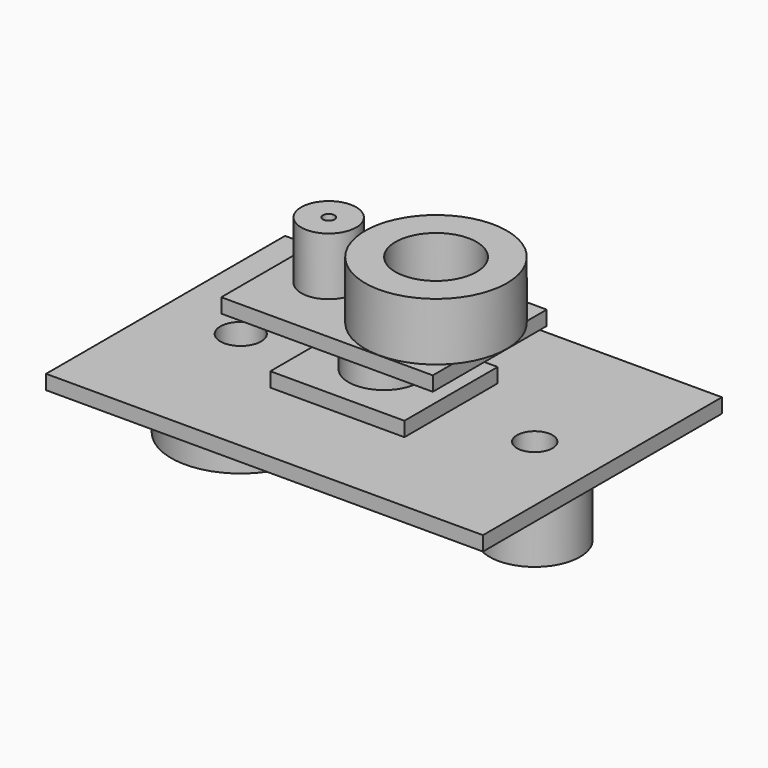
from build123d import *

# Parameters (mm, degrees)
F0_W      = 235.571132
F0_H      = 204.806238
F0_R      = 46.940365
F1_DEPTH  = 25.4
F2_R      = 62.434365
F2_R_2    = 46.940365
F3_DEPTH  = 76.2
F4_W      = 371.668696
F4_H      = 250.246078
F4_R      = 10.18532
F4_R_2    = 71.315822
F5_DEPTH  = 25.4
F6_R      = 48.285319
F6_R_2    = 10.18532
F6_R_3    = 124.655822
F6_R_4    = 71.315822
F7_DEPTH  = 101.6
F8_W      = 767.606258
F8_H      = 524.892748
F8_R      = 35.842084
F8_R_2    = 31.200306
F9_DEPTH  = 25.4
F10_R     = 79.460308
F10_R_2   = 31.200306
F10_R_3   = 122.202093
F10_R_4   = 35.842084
F11_DEPTH = 127


with BuildPart() as f1:
    # F0 (on Top) → F1 (new body)
    with BuildSketch(Plane.XY):
        Rectangle(F0_W, F0_H)
        Circle(F0_R, mode=Mode.SUBTRACT)
    extrude(amount=F1_DEPTH)

    # F2 (on face) → F3 (join)
    with BuildSketch(Plane.XY.offset(25.4)):
        Circle(F2_R)
        Circle(F2_R_2, mode=Mode.SUBTRACT)
    extrude(amount=F3_DEPTH)

    # F4 (on face) → F5 (join)
    with BuildSketch(Plane.XY.offset(101.6)):
        Rectangle(F4_W, F4_H)
        with Locations((-97.129136, 0)):
            Circle(F4_R, mode=Mode.SUBTRACT)
        with Locations((91.415659, 0)):
            Circle(F4_R_2, mode=Mode.SUBTRACT)
    extrude(amount=F5_DEPTH)

    # F6 (on face) → F7 (join)
    with BuildSketch(Plane.XY.offset(127)):
        with Locations((-97.129136, 0)):
            Circle(F6_R)
        with Locations((-97.129136, 0)):
            Circle(F6_R_2, mode=Mode.SUBTRACT)
        with Locations((91.415659, 0)):
            Circle(F6_R_3)
        with Locations((91.415659, 0)):
            Circle(F6_R_4, mode=Mode.SUBTRACT)
    extrude(amount=F7_DEPTH)

    # F8 (on face) → F9 (join)
    with BuildSketch(Plane(origin=(0, 0, 0), x_dir=(1, 0, 0), z_dir=(0, 0, -1))):
        Rectangle(F8_W, F8_H)
        with Locations((-249.21973, 3.120291)):
            Circle(F8_R, mode=Mode.SUBTRACT)
        with Locations((265.806586, 1.147008)):
            Circle(F8_R_2, mode=Mode.SUBTRACT)
    extrude(amount=F9_DEPTH)

    # F10 (on face) → F11 (join)
    with BuildSketch(Plane(origin=(0, 0, -25.4), x_dir=(1, 0, 0), z_dir=(0, 0, -1))):
        with Locations((265.806586, 1.147008)):
            Circle(F10_R)
        with Locations((265.806586, 1.147008)):
            Circle(F10_R_2, mode=Mode.SUBTRACT)
        with Locations((-249.21973, 3.120291)):
            Circle(F10_R_3)
        with Locations((-249.21973, 3.120291)):
            Circle(F10_R_4, mode=Mode.SUBTRACT)
    extrude(amount=F11_DEPTH)


solid = f1.part
